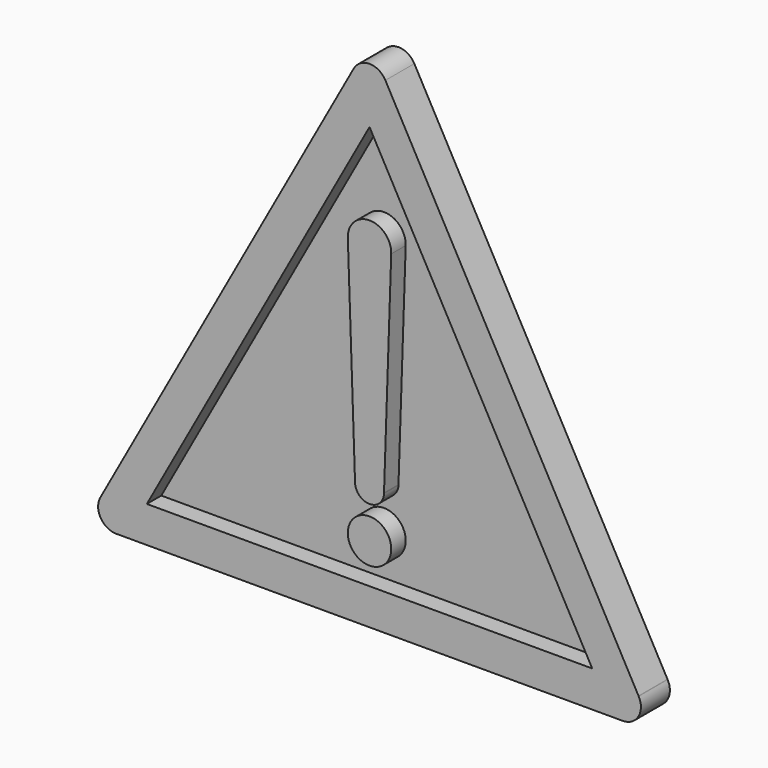
from build123d import *

# Parameters (mm, degrees)
F0_R     = 6
F1_DEPTH = 5
F2_DEPTH = 10


with BuildPart() as f1:
    # F0 (on Front) → F1 (new body)
    with BuildSketch(Plane.XZ):
        with BuildLine():
            Line((-4.3795573481, 57.3967428379), (-74.3795573481, -69.6859074334))
            ThreePointArc((-74.3795573481, -69.6859074334), (-74.3047529862, -74.6417096309), (-70, -77.0982667422))
            Line((-70, -77.0982667422), (70, -77.0982667422))
            ThreePointArc((70, -77.0982667422), (74.3047529862, -74.6417096309), (74.3795573481, -69.6859074334))
            ThreePointArc((74.3795573481, -69.6859074334), (74.3373330647, -69.6107897301), (74.2938204963, -69.536410863))
            Line((74.2938204963, -69.536410863), (74.3379773029, -69.610420257))
            Line((74.3379773029, -69.610420257), (4.3795573481, 57.3967428379))
            ThreePointArc((4.3795573481, 57.3967428379), (0, 59.9843835292), (-4.3795573481, 57.3967428379))
        make_face()
        Polygon((61.5375473825, -67.0982667422), (-61.5375473825, -67.0982667422), (0, 44.6210848659), align=None, mode=Mode.SUBTRACT)
        with BuildLine():
            Line((-4.3795573481, 57.3967428379), (-74.3795573481, -69.6859074334))
            ThreePointArc((-74.3795573481, -69.6859074334), (-74.3047529862, -74.6417096309), (-70, -77.0982667422))
            Line((-70, -77.0982667422), (70, -77.0982667422))
            ThreePointArc((70, -77.0982667422), (74.3047529862, -74.6417096309), (74.3795573481, -69.6859074334))
            ThreePointArc((74.3795573481, -69.6859074334), (74.3373330647, -69.6107897301), (74.2938204963, -69.536410863))
            Line((74.2938204963, -69.536410863), (74.3379773029, -69.610420257))
            Line((74.3379773029, -69.610420257), (4.3795573481, 57.3967428379))
            ThreePointArc((4.3795573481, 57.3967428379), (0, 59.9843835292), (-4.3795573481, 57.3967428379))
        make_face()
        Polygon((61.5375473825, -67.0982667422), (-61.5375473825, -67.0982667422), (0, 44.6210848659), align=None, mode=Mode.SUBTRACT)
        Polygon((0, 44.6210848659), (-61.5375473825, -67.0982667422), (61.5375473825, -67.0982667422), align=None)
        with BuildLine():
            ThreePointArc((-6, 15.9017332578), (0.1017095297, 21.9008711268), (5.9965517239, 15.6983434273))
            Line((5.9965517239, 15.6983434273), (4.0023001742, -43.0982666969))
            Line((4.0023001742, -43.0982666969), (3.9977011492, -43.2338599626))
            ThreePointArc((3.9977011492, -43.2338599626), (-0.0678063305, -47.0976919886), (-4, -43.0982667875))
            Line((-4, -43.0982667875), (-4.0022922668, -43.0982667875))
            Line((-4.0022922668, -43.0982667875), (-5.9862582037, 15.4958851105))
            ThreePointArc((-5.9862582037, 15.4958851105), (-5.9965635668, 15.698692895), (-6, 15.9017332578))
        make_face(mode=Mode.SUBTRACT)
        with Locations((0, -56.0982667422)):
            Circle(F0_R, mode=Mode.SUBTRACT)
        with BuildLine():
            Line((4.0023001742, -43.0982666969), (5.9965517239, 15.6983434273))
            ThreePointArc((5.9965517239, 15.6983434273), (0.1017095297, 21.9008711268), (-6, 15.9017332578))
            Line((-6, 15.9017332578), (-5.9862582037, 15.4958851105))
            Line((-5.9862582037, 15.4958851105), (-4.0022922668, -43.0982667875))
            Line((-4.0022922668, -43.0982667875), (-4, -43.0982667875))
            ThreePointArc((-4, -43.0982667875), (-0.0678063305, -47.0976919886), (3.9977011492, -43.2338599626))
            ThreePointArc((3.9977011492, -43.2338599626), (3.9994252464, -43.1660730727), (4, -43.0982666968))
            Line((4, -43.0982666968), (4.0023001742, -43.0982666969))
        make_face()
        with Locations((0, -56.0982667422)):
            Circle(F0_R)
    extrude(amount=F1_DEPTH)


with BuildPart() as f2:
    # F0 (on Front) → F2 (new body)
    with BuildSketch(Plane.XZ):
        with BuildLine():
            Line((4.0023001742, -43.0982666969), (5.9965517239, 15.6983434273))
            ThreePointArc((5.9965517239, 15.6983434273), (0.1017095297, 21.9008711268), (-6, 15.9017332578))
            Line((-6, 15.9017332578), (-5.9862582037, 15.4958851105))
            Line((-5.9862582037, 15.4958851105), (-4.0022922668, -43.0982667875))
            Line((-4.0022922668, -43.0982667875), (-4, -43.0982667875))
            ThreePointArc((-4, -43.0982667875), (-0.0678063305, -47.0976919886), (3.9977011492, -43.2338599626))
            ThreePointArc((3.9977011492, -43.2338599626), (3.9994252464, -43.1660730727), (4, -43.0982666968))
            Line((4, -43.0982666968), (4.0023001742, -43.0982666969))
        make_face()
    extrude(amount=F2_DEPTH)


with BuildPart() as f2b:
    # F0 (on Front) → F2, piece 2 (new body)
    with BuildSketch(Plane.XZ):
        with Locations((0, -56.0982667422)):
            Circle(F0_R)
    extrude(amount=F2_DEPTH)


with BuildPart() as f2c:
    # F0 (on Front) → F2, piece 3 (new body)
    with BuildSketch(Plane.XZ):
        with BuildLine():
            Line((-4.3795573481, 57.3967428379), (-74.3795573481, -69.6859074334))
            ThreePointArc((-74.3795573481, -69.6859074334), (-74.3047529862, -74.6417096309), (-70, -77.0982667422))
            Line((-70, -77.0982667422), (70, -77.0982667422))
            ThreePointArc((70, -77.0982667422), (74.3047529862, -74.6417096309), (74.3795573481, -69.6859074334))
            ThreePointArc((74.3795573481, -69.6859074334), (74.3373330647, -69.6107897301), (74.2938204963, -69.536410863))
            Line((74.2938204963, -69.536410863), (74.3379773029, -69.610420257))
            Line((74.3379773029, -69.610420257), (4.3795573481, 57.3967428379))
            ThreePointArc((4.3795573481, 57.3967428379), (0, 59.9843835292), (-4.3795573481, 57.3967428379))
        make_face()
        Polygon((61.5375473825, -67.0982667422), (-61.5375473825, -67.0982667422), (0, 44.6210848659), align=None, mode=Mode.SUBTRACT)
    extrude(amount=F2_DEPTH)


solid = Compound([f1.part, f2.part, f2b.part, f2c.part])
